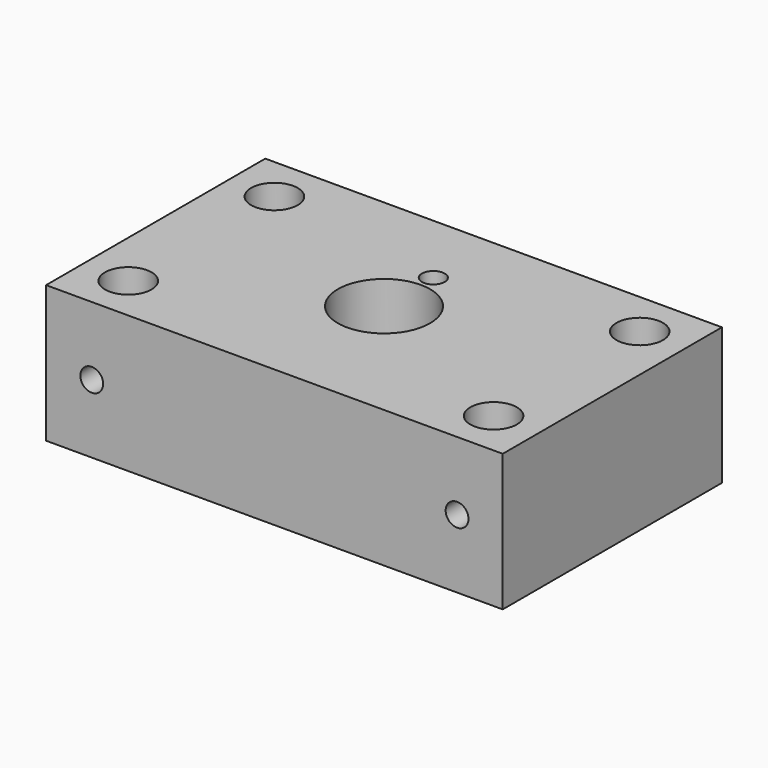
from build123d import *

# Parameters (mm, degrees)
F0_W      = 100
F0_H      = 60
F1_DEPTH  = 30
F2_R      = 10.1
F3_DEPTH  = 25
F4_R      = 5.1
F5_DEPTH  = 30.001
F9_R      = 2.5
F10_DEPTH = 10
F11_R     = 2.5
F12_DEPTH = 10
F13_R     = 2.5
F14_DEPTH = 10


with BuildPart() as f1:
    # F0 (on Top) → F1 (new body)
    with BuildSketch(Plane.XY):
        Rectangle(F0_W, F0_H)
    extrude(amount=F1_DEPTH)

    # F2 (on face) → F3 (cut)
    with BuildSketch(Plane.XY.offset(30)):
        Circle(F2_R)
    extrude(amount=-F3_DEPTH, mode=Mode.SUBTRACT)

    # F4 (on face) → F5 (cut, through all)
    with BuildSketch(Plane.XY.offset(30)):
        with Locations((-40, 20)):
            Circle(F4_R)
        with Locations((-40, -20)):
            Circle(F4_R)
        with Locations((40, 20)):
            Circle(F4_R)
        with Locations((40, -20)):
            Circle(F4_R)
    extrude(amount=-F5_DEPTH, mode=Mode.SUBTRACT)

    # F6 (on Right) → F8 (revolve, cut)
    with BuildSketch(Plane.YZ):
        Polygon((0, 10.5), (0, 0), (10.5, 0), align=None)
    revolve(axis=Axis((0, 0, -23.476606), (0, 0, -1)), mode=Mode.SUBTRACT)

    # F9 (on face) → F10 (cut)
    with BuildSketch(Plane.XZ.offset(30)):
        with Locations((-40, 15)):
            Circle(F9_R)
        with Locations((40, 15)):
            Circle(F9_R)
    extrude(amount=-F10_DEPTH, mode=Mode.SUBTRACT)

    # F11 (on face) → F12 (cut)
    with BuildSketch(Plane(origin=(0, 30, 0), x_dir=(-1, 0, 0), z_dir=(0, 1, 0))):
        with Locations((-40, 15)):
            Circle(F11_R)
        with Locations((40, 15)):
            Circle(F11_R)
    extrude(amount=-F12_DEPTH, mode=Mode.SUBTRACT)

    # F13 (on face) → F14 (cut)
    with BuildSketch(Plane.XY.offset(30)):
        with Locations((0, 13.5)):
            Circle(F13_R)
    extrude(amount=-F14_DEPTH, mode=Mode.SUBTRACT)


solid = f1.part
